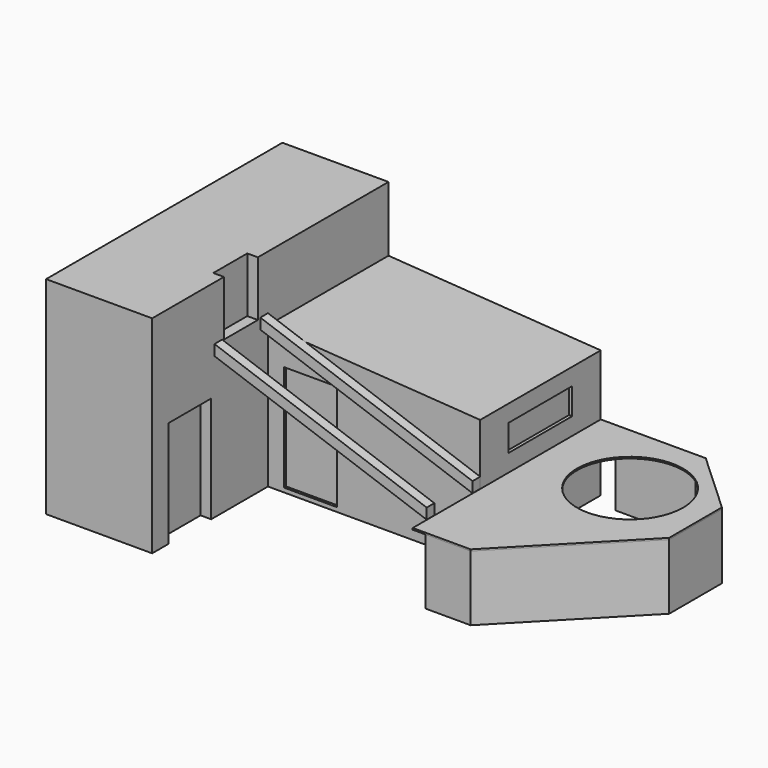
from build123d import *

# Parameters (mm, degrees)
F0_W      = 1514
F0_H      = 240
F0_W_2    = 240
F0_H_2    = 1243
F0_W_3    = 856
F1_DEPTH  = 1230
F2_DEPTH  = 3900
F3_W      = 1000
F3_H      = 2005
F4_DEPTH  = 200
F5_W      = 860
F5_H      = 1250
F6_DEPTH  = 200
F7_W      = 800
F7_H      = 1040
F8_DEPTH  = 200
F0_W_4    = 4000
F0_H_3    = 2840
F10_DEPTH = 2676
F12_DEPTH = 3620
F9_R      = 1000
F13_DEPTH = 30
F15_DEPTH = 180
F17_START = 900
F17_DEPTH = 180
F18_W     = 1000
F18_H     = 2000
F19_DEPTH = 50
F20_W     = 1500
F20_H     = 500
F21_DEPTH = 60


with BuildPart() as f1:
    # F0 (on Top) → F1 (new body)
    with BuildSketch(Plane.XY):
        with Locations((-658.8594744233, 2694.9919849969)):
            Rectangle(F0_W, F0_H)
        with Locations((1143.1405255767, 1118.037068611)):
            Rectangle(F0_W_2, F0_H_2)
        Polygon((1263.1405255767, 1739.537068611), (98.1405255767, 2814.9919849969), (98.1405255767, 2574.9919849969), (1023.1405255767, 1739.537068611), align=None)
        Polygon((-788.8594744233, -1615.0080150031), (1263.1405255767, 496.537068611), (1023.1405255767, 496.537068611), (-788.8594744233, -1375.0080150031), align=None)
        with Locations((-1216.8594744233, -1495.0080150031)):
            Rectangle(F0_W_3, F0_H)
    extrude(amount=F1_DEPTH)


with BuildPart() as f2:
    # F0 (on Top) → F2 (new body)
    with BuildSketch(Plane.XY):
        Polygon((-7881.8594744233, 2814.9919849969), (-7881.8594744233, -2753.0080150031), (-5881.8594744233, -2753.0080150031), (-5881.8594744233, -25.0080150031), (-5881.8594744233, 2814.9919849969), align=None)
    extrude(amount=F2_DEPTH)

    # F3 (on face) → F4 (cut)
    with BuildSketch(Plane.YZ.offset(-5881.8594744233)):
        with Locations((-1863.0080150031, 1002.5)):
            Rectangle(F3_W, F3_H)
    extrude(amount=-F4_DEPTH, mode=Mode.SUBTRACT)

    # F5 (on face) → F6 (cut)
    with BuildSketch(Plane.YZ.offset(-5881.8594744233)):
        with Locations((1604.9919849969, 1415)):
            Rectangle(F5_W, F5_H)
    extrude(amount=-F6_DEPTH, mode=Mode.SUBTRACT)

    # F7 (on face) → F8 (cut)
    with BuildSketch(Plane.YZ.offset(-5881.8594744233)):
        with Locations((-663.0080150031, 3380)):
            Rectangle(F7_W, F7_H)
    extrude(amount=-F8_DEPTH, mode=Mode.SUBTRACT)

    # F0 (on Top) → F10 (join)
    with BuildSketch(Plane.XY):
        with Locations((-3881.8594744233, 1394.9919849969)):
            Rectangle(F0_W_4, F0_H_3)
    extrude(amount=F10_DEPTH)

    # F11 (on face) → F12 (cut)
    with BuildSketch(Plane.XZ.offset(25.0080150031)):
        Polygon((-1881.8594744233, 2676), (-5881.8594744233, 2676), (-1881.8594744233, 2406), align=None)
    extrude(amount=-F12_DEPTH, mode=Mode.SUBTRACT)

    # F18 (on face) → F19 (cut)
    with BuildSketch(Plane.XZ.offset(25.0080150031)):
        with Locations((-5081.8594744233, 1080)):
            Rectangle(F18_W, F18_H)
    extrude(amount=-F19_DEPTH, mode=Mode.SUBTRACT)

    # F20 (on face) → F21 (cut)
    with BuildSketch(Plane.YZ.offset(-1881.8594744233)):
        with Locations((1393.9919849969, 1836)):
            Rectangle(F20_W, F20_H)
    extrude(amount=-F21_DEPTH, mode=Mode.SUBTRACT)


with BuildPart() as f13:
    # F9 (on face) → F13 (new body)
    with BuildSketch(Plane.XY.offset(1230)):
        Polygon((-1415.8594744233, 2574.9919849969), (-1415.8594744233, 2814.9919849969), (-1881.236076355, 2814.9919849969), (-1881.236076355, -1615.0080150031), (-1644.8594744233, -1615.0080150031), (-1644.8594744233, -1375.0080150031), (-788.8594744233, -1375.0080150031), (1023.1405255767, 496.537068611), (1023.1405255767, 1739.537068611), (98.1405255767, 2574.9919849969), align=None)
        with Locations((-176.8594744233, 1374.9919849969)):
            Circle(F9_R, mode=Mode.SUBTRACT)
        Polygon((1263.1405255767, 1739.537068611), (98.1405255767, 2814.9919849969), (-1415.8594744233, 2814.9919849969), (-1415.8594744233, 2574.9919849969), (98.1405255767, 2574.9919849969), (1023.1405255767, 1739.537068611), (1023.1405255767, 496.537068611), (-788.8594744233, -1375.0080150031), (-1644.8594744233, -1375.0080150031), (-1644.8594744233, -1615.0080150031), (-788.8594744233, -1615.0080150031), (1263.1405255767, 496.537068611), align=None)
    extrude(amount=F13_DEPTH)


with BuildPart() as f15:
    # F14 (on face) → F15 (new body)
    with BuildSketch(Plane.XZ.offset(25.0080150031)):
        Polygon((-5883.2034006143, 2877.7721783601), (-5881.8594744233, 2676), (-5177.8442322609, 2628.478971154), align=None)
        Polygon((-5177.8442322609, 2628.478971154), (-5881.8594744233, 2676), (-1881.8594744233, 1262.2906820192), (-1881.8594744233, 1463.5878801346), align=None)
    extrude(amount=F15_DEPTH)


with BuildPart() as f17:
    # F16 (on face) → F17 (new body)
    with BuildSketch(Plane.XZ.offset(205.0080150031).offset(F17_START)):
        Polygon((-1881.8594744233, 1463.5878801346), (-5883.2034006143, 2877.7721783601), (-5881.8594744233, 2676), (-1881.8594744233, 1262.2906820192), align=None)
    extrude(amount=F17_DEPTH)


solid = Compound([f1.part, f2.part, f13.part, f15.part, f17.part])
